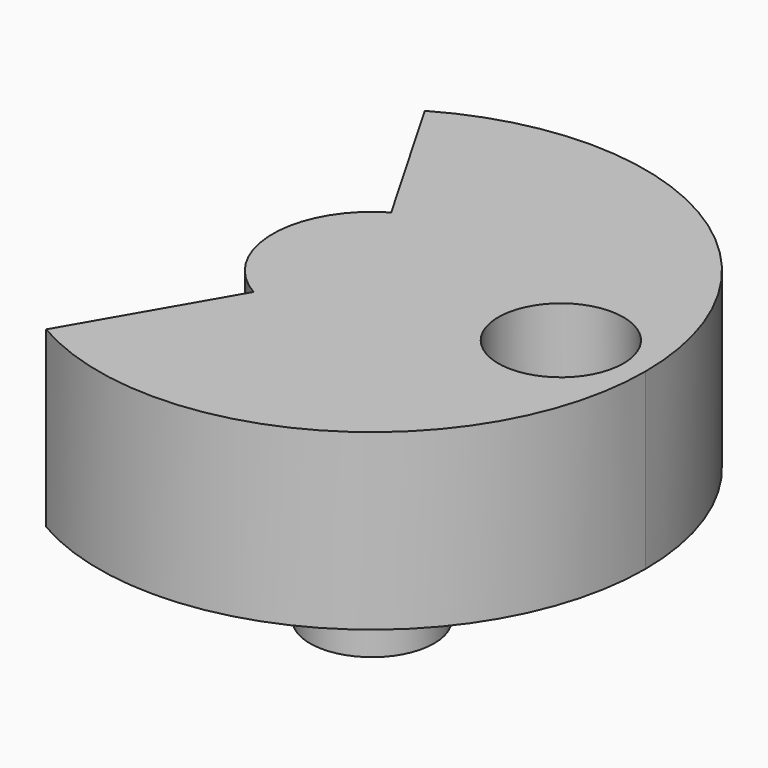
from build123d import *

# Parameters (mm, degrees)
F0_R     = 1.6002
F1_DEPTH = 4.445
F2_DEPTH = 3.81
F3_R     = 1.5875
F4_DEPTH = 3.429


with BuildPart() as f1:
    # F0 (on Top) → F1 (new body)
    with BuildSketch(Plane.XY):
        with BuildLine():
            ThreePointArc((-3.4925, -6.049187), (3.4925, -6.049187), (6.985, 0))
            ThreePointArc((6.985, 0), (3.4925, 6.049187), (-3.4925, 6.049187))
            Line((-3.4925, 6.049187), (-1.27, 2.199705))
            ThreePointArc((-1.27, 2.199705), (1.27, 2.199705), (2.54, 0))
            ThreePointArc((2.54, 0), (1.27, -2.199705), (-1.27, -2.199705))
            Line((-1.27, -2.199705), (-3.4925, -6.049187))
        make_face()
        with Locations((4.826, 0)):
            Circle(F0_R, mode=Mode.SUBTRACT)
        with BuildLine():
            Line((0, 0), (-1.27, 2.199705))
            ThreePointArc((-1.27, 2.199705), (-2.54, 0), (-1.27, -2.199705))
            Line((-1.27, -2.199705), (0, 0))
        make_face()
        with Locations((4.826, 0)):
            Circle(F0_R)
        with BuildLine():
            ThreePointArc((2.54, 0), (1.27, 2.199705), (-1.27, 2.199705))
            Line((-1.27, 2.199705), (0, 0))
            Line((0, 0), (-1.27, -2.199705))
            ThreePointArc((-1.27, -2.199705), (1.27, -2.199705), (2.54, 0))
        make_face()
    extrude(amount=-F1_DEPTH)

    # F0 (on Top) → F2 (cut)
    with BuildSketch(Plane.XY):
        with Locations((4.826, 0)):
            Circle(F0_R)
    extrude(amount=-F2_DEPTH, mode=Mode.SUBTRACT)

    # F3 (on face) → F4 (join)
    with BuildSketch(Plane(origin=(0, 0, -4.445), x_dir=(1, 0, 0), z_dir=(0, 0, -1))):
        Circle(F3_R)
    extrude(amount=F4_DEPTH)


solid = f1.part
